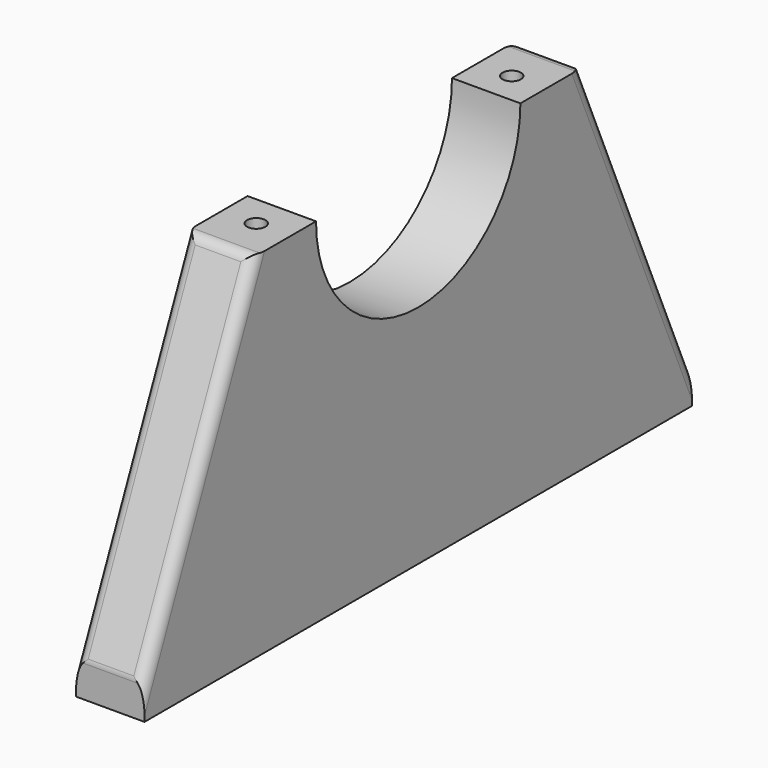
from build123d import *

# Parameters (mm, degrees)
SKETCH020_W     = 6
SKETCH020_H     = 60
PAD004_DEPTH    = 31
SKETCH021_R     = 11.2
POCKET_DEPTH    = 6.001
SKETCH028_R     = 0.8
POCKET010_DEPTH = 15
POCKET011_DEPTH = 6.001
FILLET_R        = 1


with BuildPart() as part:
    # Sketch020 → Pad004 (new body)
    with BuildSketch(Plane.XY):
        with Locations((70, -5)):
            Rectangle(SKETCH020_W, SKETCH020_H)
    extrude(amount=PAD004_DEPTH)

    # Sketch021 → Pocket (cut, through all)
    with BuildSketch(Plane.YZ.offset(73)):
        with Locations((-5, 31)):
            Circle(SKETCH021_R)
    extrude(amount=-POCKET_DEPTH, mode=Mode.SUBTRACT)

    # Sketch028 → Pocket010 (cut)
    with BuildSketch(Plane.XY.offset(31)):
        with Locations((70, 9)):
            Circle(SKETCH028_R)
        with Locations((70, -19)):
            Circle(SKETCH028_R)
    extrude(amount=-POCKET010_DEPTH, mode=Mode.SUBTRACT)

    # Sketch029 → Pocket011 (cut, through all)
    with BuildSketch(Plane.YZ.offset(73)):
        Polygon((25, 3), (12.5, 32), (-22.5, 32), (-35, 3), (-38.294894757, 52.1665199783), (33.061305243, 52.1665199783), align=None)
    extrude(amount=-POCKET011_DEPTH, mode=Mode.SUBTRACT)

    # Fillet
    fillet_edges = [part.edges().sort_by_distance(p)[0] for p in [
        (73, 18.965517, 17),
        (70, 12.931034, 31),
        (67, 18.965517, 17),
        (70, 25, 3),
        (73, -28.965517, 17),
        (70, -35, 3),
        (67, -28.965517, 17),
        (70, -22.931034, 31),
    ]]
    fillet(fillet_edges, radius=FILLET_R)


solid = part.part
